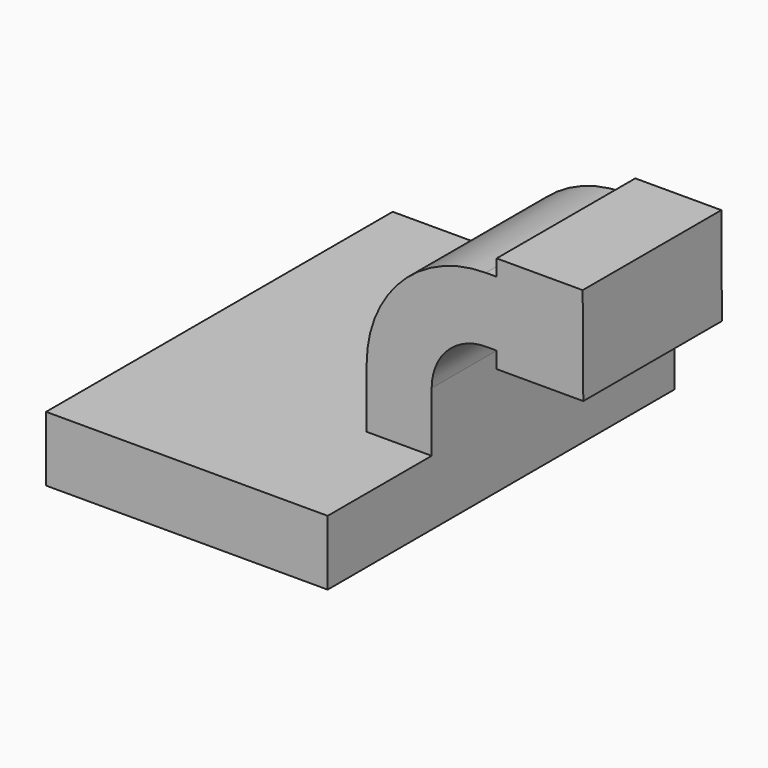
from build123d import *

# Parameters (mm, degrees)
F1_DEPTH = 63.5
F2_DEPTH = 25.4


with BuildPart() as f1:
    # F0 (on Front) → F1 (new body, symmetric)
    with BuildSketch(Plane.XZ):
        Polygon((41.275, -9.525), (41.275, 9.525), (22.225, 9.525), (-41.275, 9.525), (-41.275, -9.525), align=None)
    extrude(amount=F1_DEPTH, both=True)

    # F0 (on Front) → F2 (join, symmetric)
    with BuildSketch(Plane.XZ):
        Polygon((60.325, 61.9252), (60.325, 42.8752), (60.325, 38.1), (85.725, 38.1), (85.547439, 66.675), (60.325, 66.675), align=None)
        with BuildLine():
            Line((22.225, 9.525), (41.275, 9.525))
            Line((41.275, 9.525), (41.275, 27.0002))
            ThreePointArc((41.275, 27.0002), (45.92468, 38.22552), (57.15, 42.8752))
            Line((57.15, 42.8752), (60.325, 42.8752))
            Line((60.325, 42.8752), (60.325, 61.9252))
            Line((60.325, 61.9252), (57.15, 61.9252))
            ThreePointArc((57.15, 61.9252), (32.454296, 51.695904), (22.225, 27.0002))
            Line((22.225, 27.0002), (22.225, 9.525))
        make_face()
    extrude(amount=F2_DEPTH, both=True)


solid = f1.part
